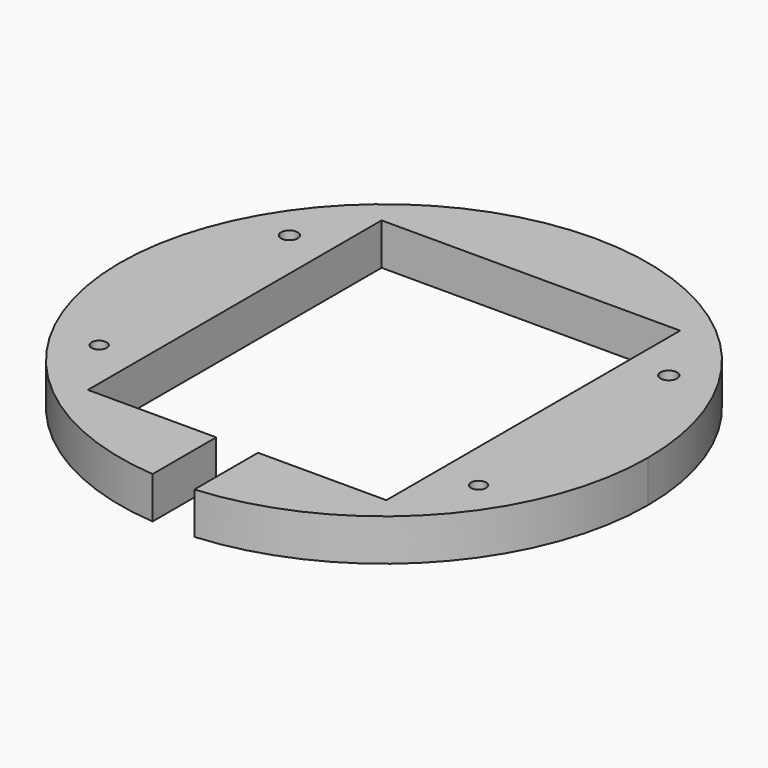
from build123d import *

# Parameters (mm, degrees)
F0_R     = 1.27
F0_R_2   = 1.397
F1_DEPTH = 7


with BuildPart() as f1:
    # F0 (on Top) → F1 (new body)
    with BuildSketch(Plane.XY):
        with BuildLine():
            ThreePointArc((3.5, -44.111365), (32.503365, -30.026551), (44.25, 0))
            ThreePointArc((44.25, 0), (-30.026551, 32.503365), (-3.5, -44.111365))
            Line((-3.5, -44.111365), (-3.5, -30.7721))
            Line((-3.5, -30.7721), (-25.019, -30.7721))
            Line((-25.019, -30.7721), (-25.019, 30.7721))
            Line((-25.019, 30.7721), (25.019, 30.7721))
            Line((25.019, 30.7721), (25.019, -30.7721))
            Line((25.019, -30.7721), (3.5, -30.7721))
            Line((3.5, -30.7721), (3.5, -44.111365))
        make_face()
        with Locations((-31.798433, -19.924125)):
            Circle(F0_R, mode=Mode.SUBTRACT)
        with Locations((31.798433, -19.924125)):
            Circle(F0_R, mode=Mode.SUBTRACT)
        with Locations((-31.798433, 19.924125)):
            Circle(F0_R_2, mode=Mode.SUBTRACT)
        with Locations((31.798433, 19.924125)):
            Circle(F0_R_2, mode=Mode.SUBTRACT)
    extrude(amount=F1_DEPTH)


solid = f1.part
